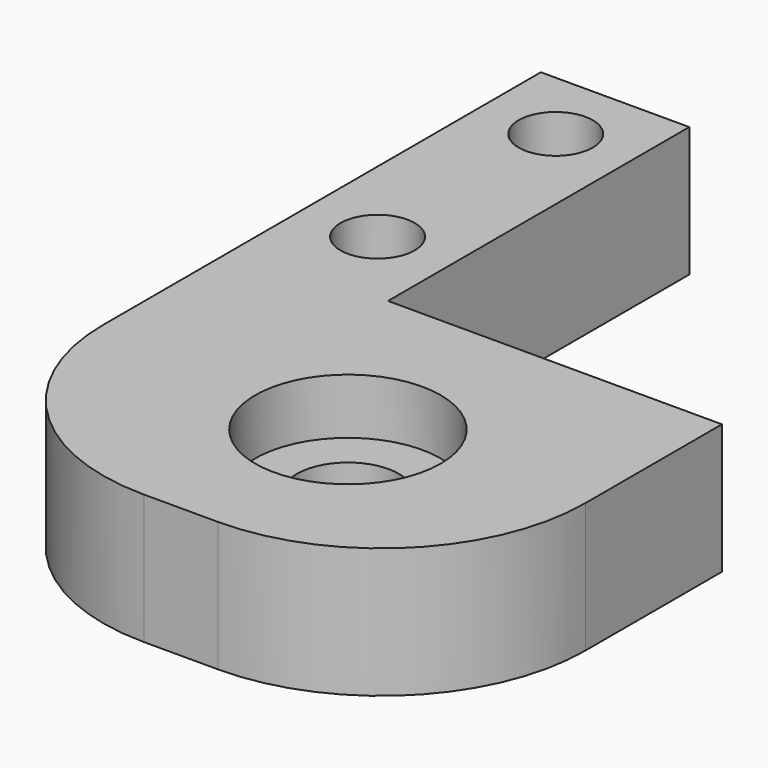
from build123d import *

# Parameters (mm, degrees)
SKETCH004_R      = 2
PAD001_DEPTH     = 7
HOLE_D           = 5.5
HOLE_DEPTH       = 25
HOLE_CBORE_D     = 10
HOLE_CBORE_DEPTH = 3
FILLET_R         = 11


with BuildPart() as part:
    # Sketch004 → Pad001 (new body)
    with BuildSketch(Plane(origin=(0, 0, 0), x_dir=(-1, 0, 0), z_dir=(0, 0, -1))):
        Polygon((29, 10), (29, -30.5), (3, -30.5), (3, -10.3), (21, -10.3), (21, 10), align=None)
        with Locations((25, 6)):
            Circle(SKETCH004_R, mode=Mode.SUBTRACT)
        with Locations((25, -6)):
            Circle(SKETCH004_R, mode=Mode.SUBTRACT)
    extrude(amount=PAD001_DEPTH)

    # Hole
    with Locations(Plane.XY):
        with Locations((-15, -20.5)):
            CounterBoreHole(HOLE_D / 2, HOLE_CBORE_D / 2, HOLE_CBORE_DEPTH, depth=HOLE_DEPTH)

    # Fillet
    fillet_edges = [part.edges().sort_by_distance(p)[0] for p in [
        (-29, -30.5, -3.5),
        (-3, -30.5, -3.5),
    ]]
    fillet(fillet_edges, radius=FILLET_R)


with BuildPart() as part_1:
    # Body002 placement: moved
    add(part.part.moved(Location((-9.5, 0, -14))))


solid = part_1.part
